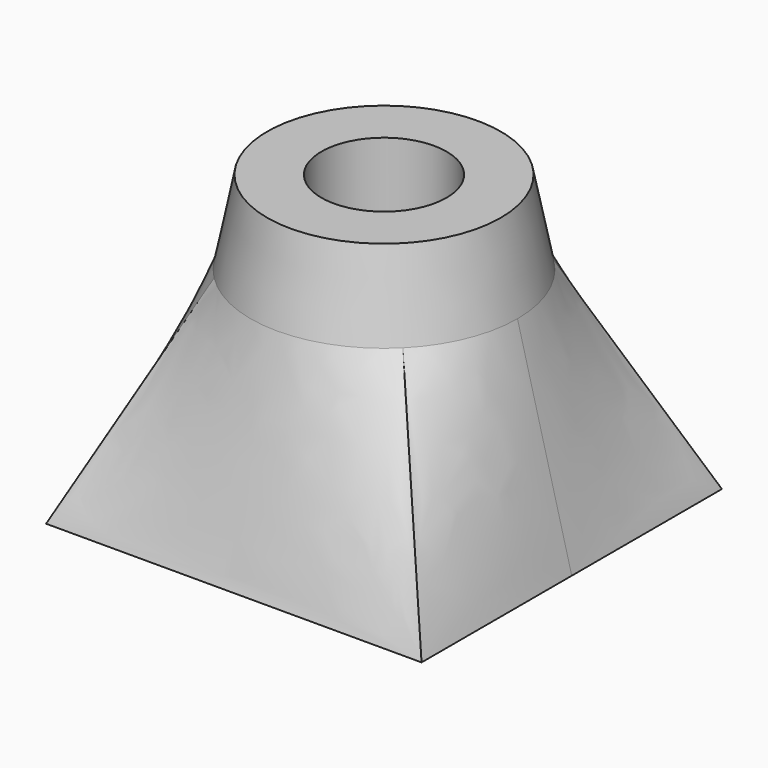
from build123d import *

# Parameters (mm, degrees)
F2_W     = 9
F2_H     = 9
F0_R     = 3.2
F5_R     = 2.8
F7_R     = 1.5
F8_DEPTH = 6.3


with BuildPart() as f3:
    # F2 (on offset) → F3 section 0
    with BuildSketch(Plane.XY.offset(-5)):
        Rectangle(F2_W, F2_H)
    # F0 (on Top) → F3 section 1
    with BuildSketch(Plane.XY):
        Circle(F0_R)
    loft()

    # F0 (on Top) → F6 section 0
    with BuildSketch(Plane.XY):
        Circle(F0_R)
    # F5 (on offset) → F6 section 1
    with BuildSketch(Plane.XY.offset(2)):
        Circle(F5_R)
    loft()

    # F7 (on offset) → F8 (cut)
    with BuildSketch(Plane.XY.offset(2)):
        Circle(F7_R)
    extrude(amount=-F8_DEPTH, mode=Mode.SUBTRACT)


solid = f3.part
